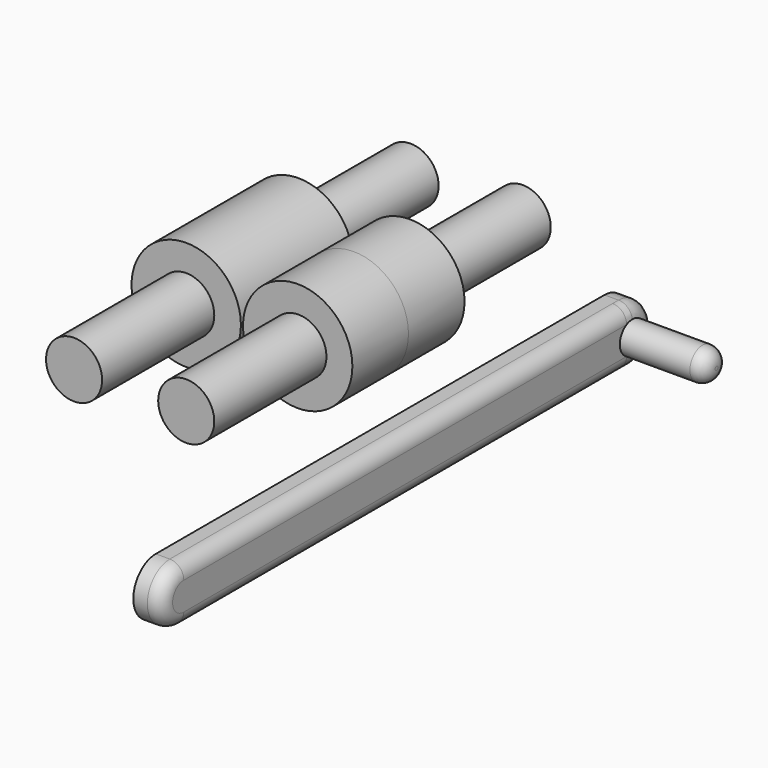
from build123d import *

# Parameters (mm, degrees)
F1_DEPTH = 75
F2_R     = 19.5
F3_DEPTH = 25
F4_R     = 5.640511
F5_DEPTH = 40
F6_DEPTH = 10
F7_R     = 5


with BuildPart() as f1:
    # F0 (on Front) → F1 (new body, symmetric)
    with BuildSketch(Plane.XZ):
        with BuildLine():
            Line((19.66037, 37.049837), (39.66037, 37.049837))
            ThreePointArc((39.66037, 37.049837), (29.66037, 47.049837), (19.66037, 37.049837))
        make_face()
        with BuildLine():
            ThreePointArc((-20.33963, 37.049837), (-10.33963, 27.049837), (-0.33963, 37.049837))
            Line((-0.33963, 37.049837), (-20.33963, 37.049837))
        make_face()
        with BuildLine():
            Line((-20.33963, 37.049837), (-0.33963, 37.049837))
            ThreePointArc((-0.33963, 37.049837), (-10.33963, 47.049837), (-20.33963, 37.049837))
        make_face()
        with BuildLine():
            ThreePointArc((19.66037, 37.049837), (29.66037, 27.049837), (39.66037, 37.049837))
            Line((39.66037, 37.049837), (19.66037, 37.049837))
        make_face()
    extrude(amount=F1_DEPTH, both=True)


with BuildPart() as f3:
    # F2 (on Front) → F3 (new body, symmetric)
    with BuildSketch(Plane.XZ):
        with Locations((29.41169, 37.049837)):
            Circle(F2_R)
        with Locations((-10.33963, 37.049837)):
            Circle(F2_R)
    extrude(amount=F3_DEPTH, both=True)


with BuildPart() as f5:
    # F4 (on Right) → F5 (new body)
    with BuildSketch(Plane.YZ):
        with Locations((148.491439, -36.984242)):
            Circle(F4_R)
    extrude(amount=F5_DEPTH)

    # F4 (on Right) → F6 (join)
    with BuildSketch(Plane.YZ):
        with BuildLine():
            Line((148.491439, -26.984242), (-51.508561, -26.984242))
            ThreePointArc((-51.508561, -26.984242), (-44.437493, -29.913174), (-41.508561, -36.984242))
            ThreePointArc((-41.508561, -36.984242), (-44.437493, -44.055309), (-51.508561, -46.984242))
            Line((-51.508561, -46.984242), (148.491439, -46.984242))
            ThreePointArc((148.491439, -46.984242), (158.491439, -36.984242), (148.491439, -26.984242))
        make_face()
        with Locations((148.491439, -36.984242)):
            Circle(F4_R, mode=Mode.SUBTRACT)
        with BuildLine():
            ThreePointArc((-41.508561, -36.984242), (-44.437493, -29.913174), (-51.508561, -26.984242))
            ThreePointArc((-51.508561, -26.984242), (-61.508561, -36.984242), (-51.508561, -46.984242))
            ThreePointArc((-51.508561, -46.984242), (-44.437493, -44.055309), (-41.508561, -36.984242))
        make_face()
    extrude(amount=F6_DEPTH)

    # F7
    f7_edges = [f5.edges().sort_by_distance(p)[0] for p in [
        (10, 48.491439, -46.984242),
        (40, 142.850928, -36.984242),
    ]]
    fillet(f7_edges, radius=F7_R)


solid = Compound([f1.part, f3.part, f5.part])
